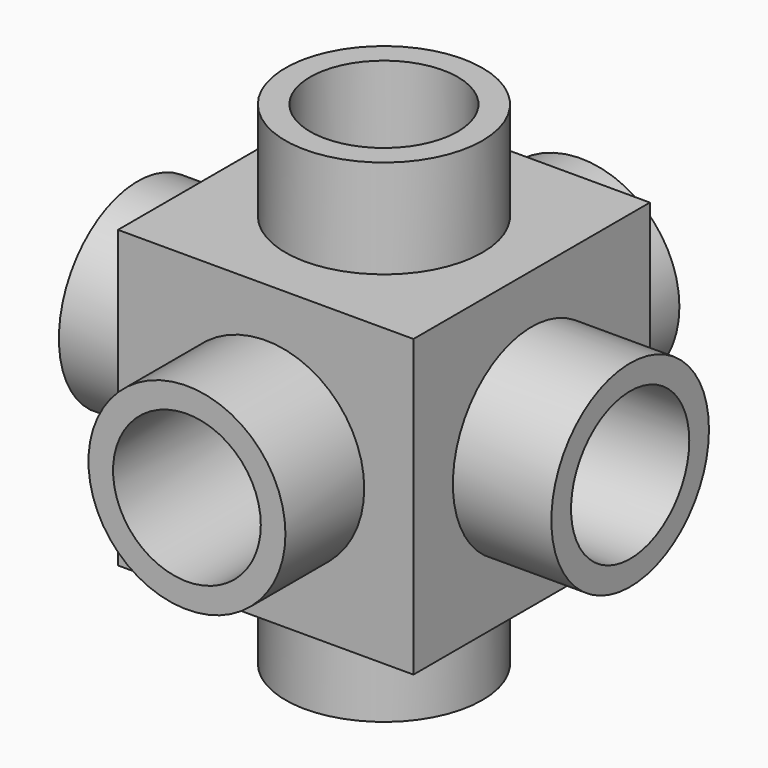
from build123d import *

# Parameters (mm, degrees)
F0_W      = 76.2
F0_H      = 76.2
F0_R      = 25.4
F1_DEPTH  = 38.1
F2_DEPTH  = 63.5
F3_R      = 25.4
F4_DEPTH  = 63.5
F5_R      = 25.4
F6_DEPTH  = 63.5
F7_R      = 19.05
F8_DEPTH  = 127.001
F9_R      = 19.05
F10_DEPTH = 127.001
F11_R     = 19.05
F12_DEPTH = 127.001
F13_W     = 50.8
F13_H     = 50.8
F14_DEPTH = 25.4


with BuildPart() as f1:
    # F0 (on Top) → F1 (new body, symmetric)
    with BuildSketch(Plane.XY):
        Rectangle(F0_W, F0_H)
        Circle(F0_R, mode=Mode.SUBTRACT)
    extrude(amount=F1_DEPTH, both=True)

    # F0 (on Top) → F2 (join, symmetric)
    with BuildSketch(Plane.XY):
        Circle(F0_R)
    extrude(amount=F2_DEPTH, both=True)

    # F3 (on Front) → F4 (join, symmetric)
    with BuildSketch(Plane.XZ):
        Circle(F3_R)
    extrude(amount=F4_DEPTH, both=True)

    # F5 (on Right) → F6 (join, symmetric)
    with BuildSketch(Plane.YZ):
        Circle(F5_R)
    extrude(amount=F6_DEPTH, both=True)

    # F7 (on face) → F8 (cut, through all)
    with BuildSketch(Plane.XY.offset(63.5)):
        Circle(F7_R)
    extrude(amount=-F8_DEPTH, mode=Mode.SUBTRACT)

    # F9 (on face) → F10 (cut, through all)
    with BuildSketch(Plane.XZ.offset(63.5)):
        Circle(F9_R)
    extrude(amount=-F10_DEPTH, mode=Mode.SUBTRACT)

    # F11 (on face) → F12 (cut, through all)
    with BuildSketch(Plane.YZ.offset(63.5)):
        Circle(F11_R)
    extrude(amount=-F12_DEPTH, mode=Mode.SUBTRACT)

    # F13 (on Front) → F14 (join, symmetric)
    with BuildSketch(Plane.XZ):
        Rectangle(F13_W, F13_H)
    extrude(amount=F14_DEPTH, both=True)


solid = f1.part
